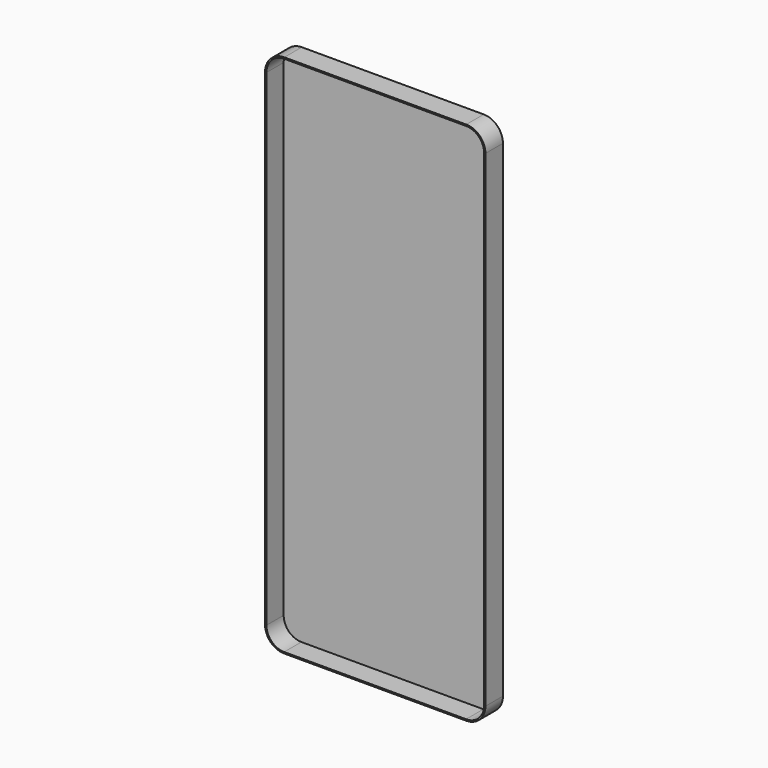
from build123d import *

# Parameters (mm, degrees)
F2_DEPTH = 6.5
F3_DEPTH = 0.1
F1_R     = 2
F4_DEPTH = 1.5


with BuildPart() as f2:
    # F0 (on Front) → F2 (new body)
    with BuildSketch(Plane.XZ):
        with BuildLine():
            Line((9.789024, 111.786183), (9.789024, -32.653514))
            ThreePointArc((9.789024, -32.653514), (11.447287, -36.656048), (15.449991, -38.313902))
            Line((15.449991, -38.313902), (69.449991, -38.313943))
            ThreePointArc((69.449991, -38.313943), (73.503284, -36.683913), (75.189024, -32.65347))
            Line((75.189024, -32.65347), (75.189024, 111.786183))
            ThreePointArc((75.189024, 111.786183), (73.519525, 115.816634), (69.489059, 117.486098))
            Line((69.489059, 117.486098), (15.489059, 117.486098))
            ThreePointArc((15.489059, 117.486098), (11.458568, 115.816639), (9.789024, 111.786183))
        make_face()
        with BuildLine():
            Line((10.189024, -32.653514), (10.189024, 111.786183))
            ThreePointArc((10.189024, 111.786183), (11.741411, 115.533796), (15.489059, 117.086098))
            Line((15.489059, 117.086098), (69.489059, 117.086098))
            ThreePointArc((69.489059, 117.086098), (73.236682, 115.533792), (74.789024, 111.786183))
            Line((74.789024, 111.786183), (74.789024, -32.653514))
            ThreePointArc((74.789024, -32.653514), (73.220418, -36.401079), (69.449991, -37.913902))
            Line((69.449991, -37.913902), (15.449991, -37.913902))
            ThreePointArc((15.449991, -37.913902), (11.73013, -36.373205), (10.189024, -32.653514))
        make_face(mode=Mode.SUBTRACT)
        with BuildLine():
            Line((9.789024, 111.786183), (9.789024, -32.653514))
            ThreePointArc((9.789024, -32.653514), (11.447287, -36.656048), (15.449991, -38.313902))
            Line((15.449991, -38.313902), (69.449991, -38.313943))
            ThreePointArc((69.449991, -38.313943), (73.503284, -36.683913), (75.189024, -32.65347))
            Line((75.189024, -32.65347), (75.189024, 111.786183))
            ThreePointArc((75.189024, 111.786183), (73.519525, 115.816634), (69.489059, 117.486098))
            Line((69.489059, 117.486098), (15.489059, 117.486098))
            ThreePointArc((15.489059, 117.486098), (11.458568, 115.816639), (9.789024, 111.786183))
        make_face()
        with BuildLine():
            Line((10.189024, -32.653514), (10.189024, 111.786183))
            ThreePointArc((10.189024, 111.786183), (11.741411, 115.533796), (15.489059, 117.086098))
            Line((15.489059, 117.086098), (69.489059, 117.086098))
            ThreePointArc((69.489059, 117.086098), (73.236682, 115.533792), (74.789024, 111.786183))
            Line((74.789024, 111.786183), (74.789024, -32.653514))
            ThreePointArc((74.789024, -32.653514), (73.220418, -36.401079), (69.449991, -37.913902))
            Line((69.449991, -37.913902), (15.449991, -37.913902))
            ThreePointArc((15.449991, -37.913902), (11.73013, -36.373205), (10.189024, -32.653514))
        make_face(mode=Mode.SUBTRACT)
    extrude(amount=F2_DEPTH)


with BuildPart() as f3:
    # F0 (on Front) → F3 (new body)
    with BuildSketch(Plane.XZ):
        with BuildLine():
            ThreePointArc((15.489059, 117.086098), (11.741411, 115.533796), (10.189024, 111.786183))
            Line((10.189024, 111.786183), (10.189024, -32.653514))
            ThreePointArc((10.189024, -32.653514), (11.73013, -36.373205), (15.449991, -37.913902))
            Line((15.449991, -37.913902), (69.449991, -37.913902))
            ThreePointArc((69.449991, -37.913902), (73.220418, -36.401079), (74.789024, -32.653514))
            Line((74.789024, -32.653514), (74.789024, 111.786183))
            ThreePointArc((74.789024, 111.786183), (73.236682, 115.533792), (69.489059, 117.086098))
            Line((69.489059, 117.086098), (15.489059, 117.086098))
        make_face()
    extrude(amount=F3_DEPTH)

    # F1 (on Front) → F4 (join)
    with BuildSketch(Plane.XZ):
        with Locations((15.404275, -32.560658)):
            Circle(F1_R)
        with Locations((69.468722, -32.633983)):
            Circle(F1_R)
        with Locations((69.468722, 111.834854)):
            Circle(F1_R)
        with Locations((15.404275, 111.834854)):
            Circle(F1_R)
    extrude(amount=-F4_DEPTH)


solid = Compound([f2.part, f3.part])
